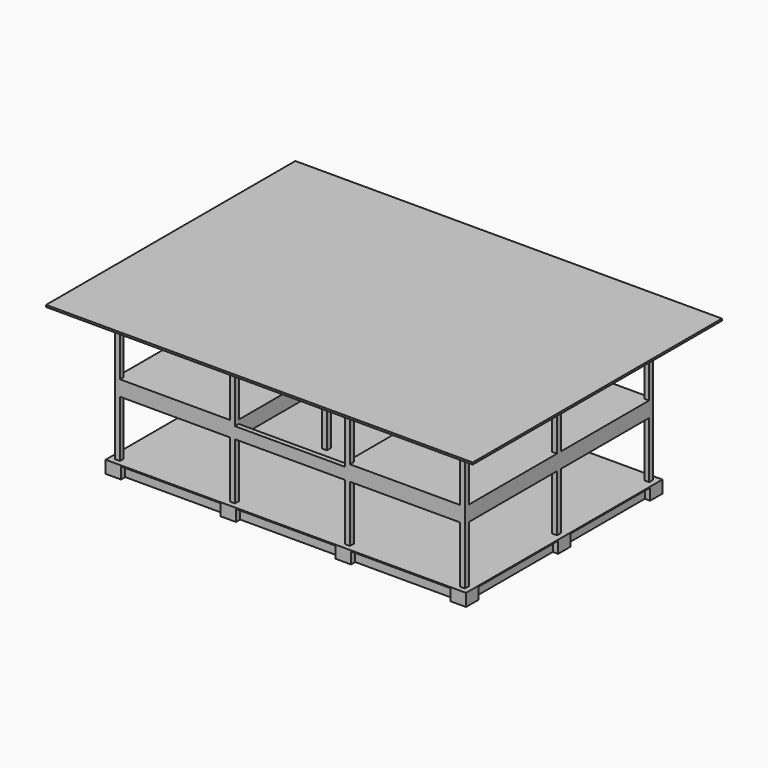
from build123d import *

# Parameters (mm, degrees)
SKETCH001_W                                      = 250
SKETCH001_H                                      = 250
EXTRUDE_SKETCH001_DEPTH                          = 3600
ARRAY001_X_COUNT                                 = 4
ARRAY001_X_PITCH                                 = 6000
ARRAY001_Y_COUNT                                 = 3
ARRAY001_Y_PITCH                                 = 6000
ARRAY001_Z_COUNT                                 = 2
ARRAY001_Z_PITCH                                 = 3600
SKETCH002_W                                      = 250
SKETCH002_H                                      = 600
EXTRUDE_SKETCH002_DEPTH                          = 5200
ARRAY002_X_COUNT                                 = 3
ARRAY002_X_PITCH                                 = 6000
ARRAY002_Y_COUNT                                 = 3
ARRAY002_Y_PITCH                                 = 6000
SKETCH_W                                         = 800
SKETCH_H                                         = 800
EXTRUDE_SKETCH_DEPTH                             = 600
ARRAY_X_COUNT                                    = 4
ARRAY_X_PITCH                                    = 6000
ARRAY_Y_COUNT                                    = 3
ARRAY_Y_PITCH                                    = 6000
SKETCH003_AS_DRAWN_W                             = 250
SKETCH003_AS_DRAWN_H                             = 600
EXTRUDE_SKETCH003_DEPTH                          = 5200
EXTRUDE_SKETCH003_ONTO_SKETCH003_ROLL_ANGLE      = 90
ARRAY003_X_COUNT                                 = 4
ARRAY003_X_PITCH                                 = 6000
ARRAY003_Y_COUNT                                 = 2
ARRAY003_Y_PITCH                                 = 6000
SKETCH004_W                                      = 250
SKETCH004_H                                      = 600
EXTRUDE_SKETCH004_DEPTH                          = 5750
ARRAY004_X_COUNT                                 = 3
ARRAY004_X_PITCH                                 = 6000
ARRAY004_Y_COUNT                                 = 3
ARRAY004_Y_PITCH                                 = 6000
ARRAY004_Z_COUNT                                 = 2
ARRAY004_Z_PITCH                                 = 3600
SKETCH005_AS_DRAWN_W                             = 250
SKETCH005_AS_DRAWN_H                             = 600
EXTRUDE_SKETCH005_DEPTH                          = 5750
EXTRUDE_SKETCH005_ONTO_SKETCH005_ROLL_ANGLE      = 90
EXTRUDE_SKETCH005_ONTO_SKETCH005_PLACEMENT_ANGLE = 180
ARRAY005_X_COUNT                                 = 4
ARRAY005_X_PITCH                                 = 6000
ARRAY005_Y_COUNT                                 = 2
ARRAY005_Y_PITCH                                 = 6000
ARRAY005_Z_COUNT                                 = 2
ARRAY005_Z_PITCH                                 = 3600
SKETCH006_W                                      = 18800
SKETCH006_H                                      = 12800
EXTRUDE_SKETCH006_DEPTH                          = 50
EXTRUDE_SKETCH007_DEPTH                          = 200
SKETCH008_W                                      = 22250
SKETCH008_H                                      = 16250
EXTRUDE_SKETCH008_DEPTH                          = 100


with BuildPart() as array001:
    # Sketch001 → Extrude_Sketch001 (new body)
    with BuildSketch(Plane.XY.offset(600)):
        with Locations((400, 400)):
            Rectangle(SKETCH001_W, SKETCH001_H)
    extrude(amount=EXTRUDE_SKETCH001_DEPTH)

    # Array001 X: Array001 ×4


with BuildPart() as array001_1:
    add(array001.part)
    with Locations(*[(i * ARRAY001_X_PITCH, 0, 0) for i in range(1, ARRAY001_X_COUNT)]):
        add(array001.part)

    # Array001 Y: Array001 ×3


with BuildPart() as array001_2:
    add(array001_1.part)
    with Locations(*[(0, i * ARRAY001_Y_PITCH, 0) for i in range(1, ARRAY001_Y_COUNT)]):
        add(array001_1.part)

    # Array001 Z: Array001 ×2


with BuildPart() as array001_3:
    add(array001_2.part)
    with Locations(*[(0, 0, i * ARRAY001_Z_PITCH) for i in range(1, ARRAY001_Z_COUNT)]):
        add(array001_2.part)


with BuildPart() as obj1:
    # Sketch002 → Extrude_Sketch002 (new body)
    with BuildSketch(Plane.YZ.offset(800)):
        with Locations((400, 300)):
            Rectangle(SKETCH002_W, SKETCH002_H)
    extrude(amount=EXTRUDE_SKETCH002_DEPTH)

    # Array002 X: obj1 ×3


with BuildPart() as obj1_1:
    add(obj1.part)
    with Locations(*[(i * ARRAY002_X_PITCH, 0, 0) for i in range(1, ARRAY002_X_COUNT)]):
        add(obj1.part)

    # Array002 Y: obj1 ×3


with BuildPart() as obj1_2:
    add(obj1_1.part)
    with Locations(*[(0, i * ARRAY002_Y_PITCH, 0) for i in range(1, ARRAY002_Y_COUNT)]):
        add(obj1_1.part)


with BuildPart() as obj2:
    # Sketch → Extrude_Sketch (new body)
    with BuildSketch(Plane.XY):
        with Locations((400, 400)):
            Rectangle(SKETCH_W, SKETCH_H)
    extrude(amount=EXTRUDE_SKETCH_DEPTH)

    # Array X: obj2 ×4


with BuildPart() as obj2_1:
    add(obj2.part)
    with Locations(*[(i * ARRAY_X_PITCH, 0, 0) for i in range(1, ARRAY_X_COUNT)]):
        add(obj2.part)

    # Array Y: obj2 ×3


with BuildPart() as obj2_2:
    add(obj2_1.part)
    with Locations(*[(0, i * ARRAY_Y_PITCH, 0) for i in range(1, ARRAY_Y_COUNT)]):
        add(obj2_1.part)


with BuildPart() as obj3:
    # Sketch003 as drawn → Extrude_Sketch003 (new)
    with BuildSketch(Plane.XY):
        with Locations((400, 300)):
            Rectangle(SKETCH003_AS_DRAWN_W, SKETCH003_AS_DRAWN_H)
    extrude(amount=EXTRUDE_SKETCH003_DEPTH)


with BuildPart() as obj3_1:
    # Extrude_Sketch003 onto Sketch003 roll: moved
    add(obj3.part.rotate(Axis((0, 0, 0), (1, 0, 0)), EXTRUDE_SKETCH003_ONTO_SKETCH003_ROLL_ANGLE))


with BuildPart() as obj3_2:
    # Extrude_Sketch003 onto Sketch003 placement: moved
    add(obj3_1.part.moved(Location((0, 6000, 0))))

    # Array003 X: obj3_4


with BuildPart() as obj3_3:
    add(obj3_2.part)
    with Locations(*[(i * ARRAY003_X_PITCH, 0, 0) for i in range(1, ARRAY003_X_COUNT)]):
        add(obj3_2.part)

    # Array003 Y: obj3_2


with BuildPart() as obj3_4:
    add(obj3_3.part)
    with Locations(*[(0, i * ARRAY003_Y_PITCH, 0) for i in range(1, ARRAY003_Y_COUNT)]):
        add(obj3_3.part)


with BuildPart() as array004:
    # Sketch004 → Extrude_Sketch004 (new body)
    with BuildSketch(Plane.YZ.offset(525)):
        with Locations((400, 7500)):
            Rectangle(SKETCH004_W, SKETCH004_H)
    extrude(amount=EXTRUDE_SKETCH004_DEPTH)

    # Array004 X: Array004 ×3


with BuildPart() as array004_1:
    add(array004.part)
    with Locations(*[(i * ARRAY004_X_PITCH, 0, 0) for i in range(1, ARRAY004_X_COUNT)]):
        add(array004.part)

    # Array004 Y: Array004 ×3


with BuildPart() as array004_2:
    add(array004_1.part)
    with Locations(*[(0, i * ARRAY004_Y_PITCH, 0) for i in range(1, ARRAY004_Y_COUNT)]):
        add(array004_1.part)

    # Array004 Z: Array004 ×2


with BuildPart() as array004_3:
    add(array004_2.part)
    with Locations(*[(0, 0, -i * ARRAY004_Z_PITCH) for i in range(1, ARRAY004_Z_COUNT)]):
        add(array004_2.part)


with BuildPart() as obj4:
    # Sketch005 as drawn → Extrude_Sketch005 (new)
    with BuildSketch(Plane.XY):
        with Locations((-400, 7500)):
            Rectangle(SKETCH005_AS_DRAWN_W, SKETCH005_AS_DRAWN_H)
    extrude(amount=EXTRUDE_SKETCH005_DEPTH)


with BuildPart() as obj4_1:
    # Extrude_Sketch005 onto Sketch005 roll: moved
    add(obj4.part.rotate(Axis((0, 0, 0), (1, 0, 0)), EXTRUDE_SKETCH005_ONTO_SKETCH005_ROLL_ANGLE))


with BuildPart() as obj4_2:
    # Extrude_Sketch005 onto Sketch005 placement: moved
    add(obj4_1.part.moved(Location((0, 525, 0))).rotate(Axis((0, 525, 0), (0, 0, 1)), EXTRUDE_SKETCH005_ONTO_SKETCH005_PLACEMENT_ANGLE))

    # Array005 X: obj4_4


with BuildPart() as obj4_3:
    add(obj4_2.part)
    with Locations(*[(i * ARRAY005_X_PITCH, 0, 0) for i in range(1, ARRAY005_X_COUNT)]):
        add(obj4_2.part)

    # Array005 Y: obj4_2


with BuildPart() as obj4_4:
    add(obj4_3.part)
    with Locations(*[(0, i * ARRAY005_Y_PITCH, 0) for i in range(1, ARRAY005_Y_COUNT)]):
        add(obj4_3.part)

    # Array005 Z: obj4_2


with BuildPart() as obj4_5:
    add(obj4_4.part)
    with Locations(*[(0, 0, -i * ARRAY005_Z_PITCH) for i in range(1, ARRAY005_Z_COUNT)]):
        add(obj4_4.part)

    # Fusion: union Array001, obj1, obj2, obj3, Array004
    add(array001_3.part)
    add(obj1_2.part)
    add(obj2_2.part)
    add(obj3_4.part)
    add(array004_3.part)


with BuildPart() as fusion001:
    # Sketch006 → Extrude_Sketch006 (new body)
    with BuildSketch(Plane.XY.offset(600)):
        with Locations((9400, 6400)):
            Rectangle(SKETCH006_W, SKETCH006_H)
    extrude(amount=EXTRUDE_SKETCH006_DEPTH)

    # Fusion001: union obj4
    add(obj4_5.part)


with BuildPart() as fusion002:
    # Sketch007 → Extrude_Sketch007 (new body)
    with BuildSketch(Plane.XY.offset(4200)):
        Polygon((275, 275), (6525, 275), (6525, 6275), (12275, 6275), (12275, 275), (18525, 275), (18525, 12525), (275, 12525), align=None)
    extrude(amount=EXTRUDE_SKETCH007_DEPTH)

    # Fusion002: union Fusion001
    add(fusion001.part)


with BuildPart() as sketch008_extrude:
    # Sketch008 → Extrude_Sketch008 (new body)
    with BuildSketch(Plane.XY.offset(7800)):
        with Locations((9400, 6400)):
            Rectangle(SKETCH008_W, SKETCH008_H)
    extrude(amount=EXTRUDE_SKETCH008_DEPTH)


solid = Compound([fusion002.part, sketch008_extrude.part])
